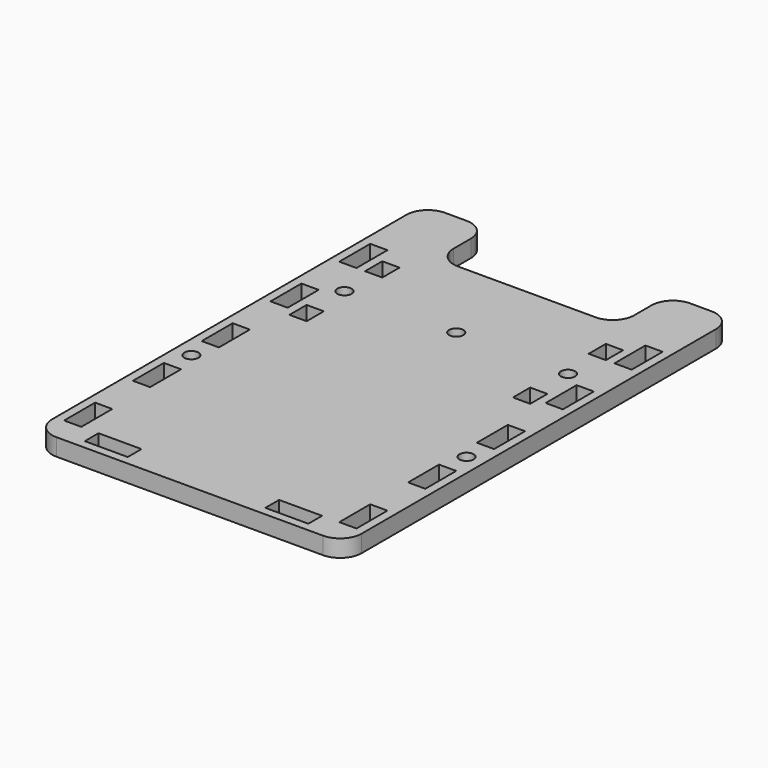
from build123d import *

# Parameters (mm, degrees)
F0_W     = 4
F0_H     = 5
F1_DEPTH = 4
F2_D     = 3.3
F3_D     = 3.3
F4_W     = 4
F4_H     = 9
F4_W_2   = 10
F4_H_2   = 4
F5_DEPTH = 4
F6_D     = 3.3
F7_R     = 5


with BuildPart() as f1:
    # F0 (on Top) → F1 (new body)
    with BuildSketch(Plane.XY):
        Polygon((18.9080892972, -17.5), (30, -17.5), (30, 17.5), (-30, 17.5), (-30, -17.5), (-18.9080892972, -17.5), (-6.0919107028, -17.5), (6.0919107028, -17.5), align=None)
        with Locations((-26, -11)):
            Rectangle(F0_W, F0_H, mode=Mode.SUBTRACT)
        with Locations((26, -11)):
            Rectangle(F0_W, F0_H, mode=Mode.SUBTRACT)
        with Locations((-26, 11)):
            Rectangle(F0_W, F0_H, mode=Mode.SUBTRACT)
        with Locations((26, 11)):
            Rectangle(F0_W, F0_H, mode=Mode.SUBTRACT)
    extrude(amount=F1_DEPTH)

    # F2 (through all)
    with Locations(Plane(origin=(0, 0, 0), x_dir=(1, 0, 0), z_dir=(0, 0, -1))):
        with Locations((-26, 0), (26, 0)):
            Hole(F2_D / 2)

    # F3 (through all)
    with Locations(Plane(origin=(0, 0, 0), x_dir=(1, 0, 0), z_dir=(0, 0, -1))):
        with Locations((0, 0)):
            Hole(F3_D / 2)

    # F4 (on face) → F5 (join)
    with BuildSketch(Plane.XY.offset(4)):
        Polygon((-36, -77.5), (36, -77.5), (36, 17.5), (36, 35.5), (21, 35.5), (21, 20.5), (0, 20.5), (-21, 20.5), (-21, 35.5), (-36, 35.5), (-36, 17.5), align=None)
        with Locations((-32, -67)):
            Rectangle(F4_W, F4_H, mode=Mode.SUBTRACT)
        with Locations((-21, -73.5)):
            Rectangle(F4_W_2, F4_H_2, mode=Mode.SUBTRACT)
        with Locations((-32, -47)):
            Rectangle(F4_W, F4_H, mode=Mode.SUBTRACT)
        with Locations((-32, -27)):
            Rectangle(F4_W, F4_H, mode=Mode.SUBTRACT)
        with Locations((21, -73.5)):
            Rectangle(F4_W_2, F4_H_2, mode=Mode.SUBTRACT)
        with Locations((32, -67)):
            Rectangle(F4_W, F4_H, mode=Mode.SUBTRACT)
        with Locations((32, -47)):
            Rectangle(F4_W, F4_H, mode=Mode.SUBTRACT)
        with Locations((32, -27)):
            Rectangle(F4_W, F4_H, mode=Mode.SUBTRACT)
        Polygon((-34, 17.5), (-30, 17.5), (30, 17.5), (34, 17.5), (34, 8.5), (30, 8.5), (30, -2.5), (34, -2.5), (34, -11.5), (30, -11.5), (30, -17.5), (-30, -17.5), (-30, -11.5), (-34, -11.5), (-34, -2.5), (-30, -2.5), (-30, 8.5), (-34, 8.5), align=None, mode=Mode.SUBTRACT)
    extrude(amount=-F5_DEPTH)

    # F6 (through all)
    with Locations(Plane.XY.offset(4)):
        with Locations((-32, -37), (32, -37)):
            Hole(F6_D / 2)

    # F7
    f7_edges = [f1.edges().sort_by_distance(p)[0] for p in [
        (-36, -77.5, 2),
        (36, -77.5, 2),
        (-21, 20.5, 2),
        (-21, 35.5, 2),
        (-36, 35.5, 2),
        (21, 35.5, 2),
        (21, 20.5, 2),
        (36, 35.5, 2),
    ]]
    fillet(f7_edges, radius=F7_R)


solid = f1.part
